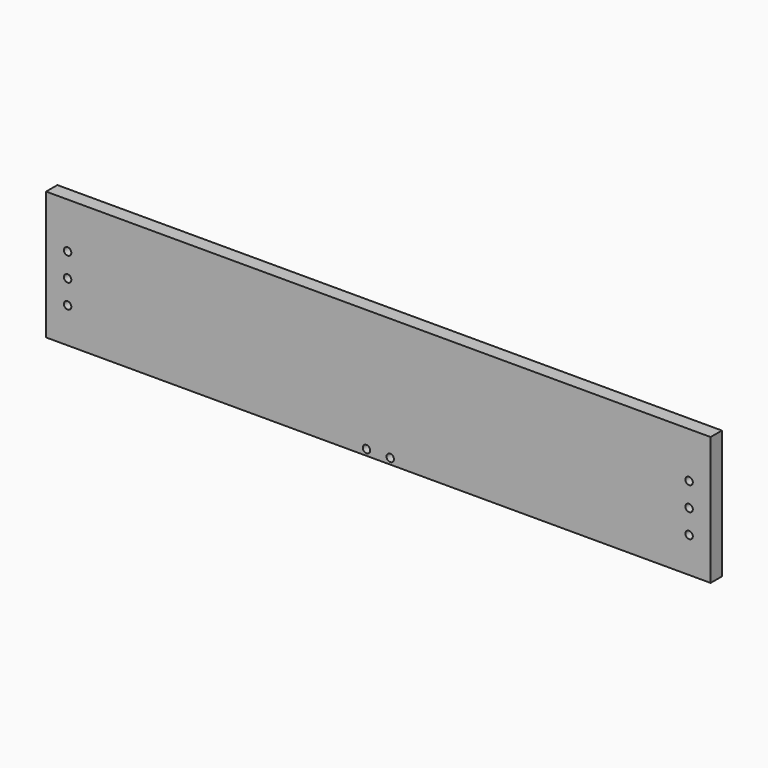
from build123d import *

# Parameters (mm, degrees)
F0_W     = 19
F0_H     = 173
F1_DEPTH = 895
F3_D     = 10
F3_DEPTH = 12
F3_TIP   = 3.0043030951


with BuildPart() as f1:
    # F0 (on Right) → F1 (new body)
    with BuildSketch(Plane.YZ):
        with Locations((-9.5, 86.5)):
            Rectangle(F0_W, F0_H)
    extrude(amount=F1_DEPTH)

    # F3
    with Locations(Plane.XZ.offset(19)):
        with Locations((29, 111.5), (29, 79.5), (29, 47.5), (431.5, 8), (463.5, 8), (866, 47.5), (866, 79.5), (866, 111.5)):
            Hole(F3_D / 2, depth=F3_DEPTH)
            with Locations((0, 0, -(F3_DEPTH + F3_TIP / 2))):  # 118° drill point
                Cone(0, F3_D / 2, F3_TIP, mode=Mode.SUBTRACT)


solid = f1.part
